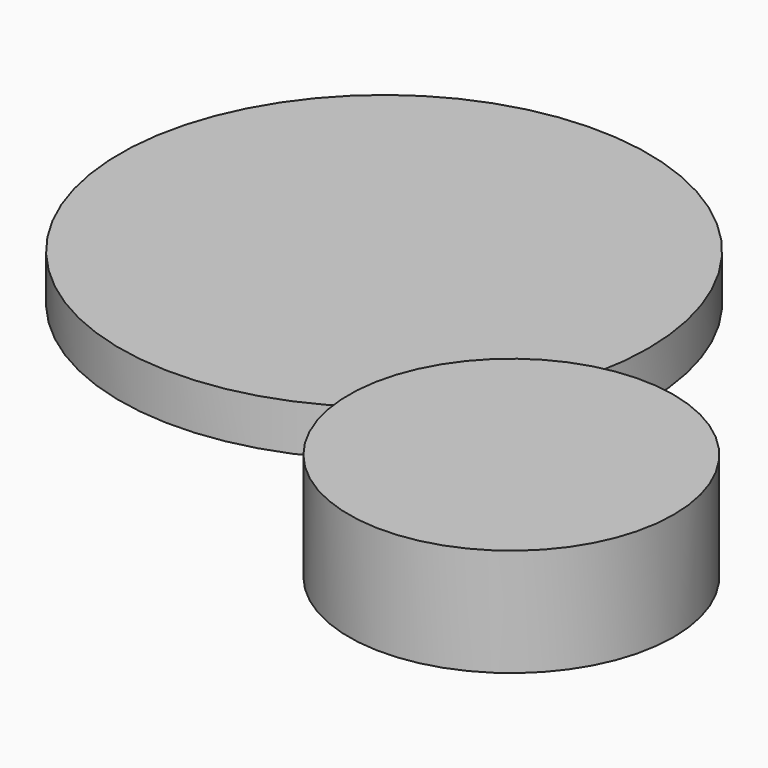
from build123d import *

# Parameters (mm, degrees)
F2_R     = 21.1
F2_R_2   = 20.1
F3_DEPTH = 14
F4_DEPTH = 13
F2_R_3   = 34.3
F2_R_4   = 33.3
F5_DEPTH = 6
F6_DEPTH = 5


with BuildPart() as f3:
    # F2 (on Top) → F3 (new body)
    with BuildSketch(Plane.XY):
        Circle(F2_R)
        Circle(F2_R_2, mode=Mode.SUBTRACT)
        Circle(F2_R_2)
    extrude(amount=F3_DEPTH)

    # F2 (on Top) → F4 (cut)
    with BuildSketch(Plane.XY):
        Circle(F2_R_2)
    extrude(amount=F4_DEPTH, mode=Mode.SUBTRACT)


with BuildPart() as f5:
    # F2 (on Top) → F5 (new body)
    with BuildSketch(Plane.XY):
        with Locations((-47.6407893002, 38.8840572437)):
            Circle(F2_R_3)
        with Locations((-47.6407893002, 38.8840572437)):
            Circle(F2_R_4, mode=Mode.SUBTRACT)
        with Locations((-47.6407893002, 38.8840572437)):
            Circle(F2_R_3)
        with Locations((-47.6407893002, 38.8840572437)):
            Circle(F2_R_4, mode=Mode.SUBTRACT)
        with Locations((-47.6407893002, 38.8840572437)):
            Circle(F2_R_4)
        with Locations((-47.6407893002, 38.8840572437)):
            Circle(F2_R_4)
    extrude(amount=F5_DEPTH)

    # F2 (on Top) → F6 (cut)
    with BuildSketch(Plane.XY):
        with Locations((-47.6407893002, 38.8840572437)):
            Circle(F2_R_4)
        with Locations((-47.6407893002, 38.8840572437)):
            Circle(F2_R_4)
    extrude(amount=F6_DEPTH, mode=Mode.SUBTRACT)


solid = Compound([f3.part, f5.part])
